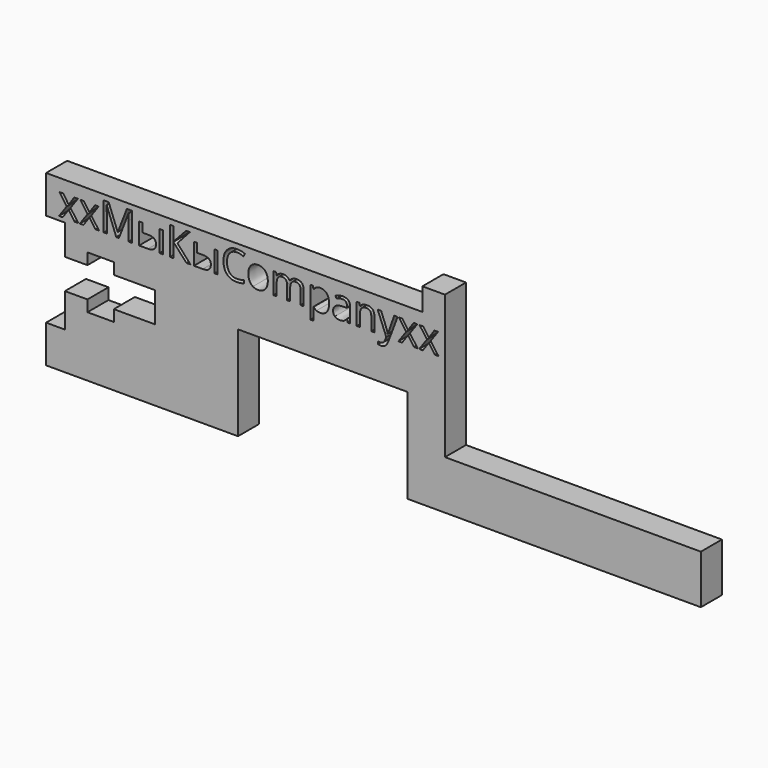
from build123d import *

# Parameters (mm, degrees)
F0_W     = 1.0859235457
F0_H     = 7.1662584661
F1_DEPTH = 8.89


with BuildPart() as f1:
    # F0 (on Front) → F1 (new body)
    with BuildSketch(Plane.XZ):
        Polygon((-63.511736691, 0), (0, 0), (0, 31.7667648196), (57.1569688618, 31.7667648196), (57.1569688618, 0), (156.2215834856, 0), (156.2215834856, 16.5081899613), (69.8571205139, 16.5081899613), (69.8571205139, 64.7891238332), (62.2352696955, 64.7891238332), (62.2352696955, 57.1715123951), (-64.765304327, 57.1715123951), (-64.765304327, 44.4623976946), (-58.4161430597, 44.4623976946), (-58.4161430597, 34.3006663024), (-50.8078150451, 34.3006663024), (-50.8078150451, 38.122523576), (-41.9120937586, 38.122523576), (-41.9120937586, 34.3006663024), (-27.9345344752, 34.3006663024), (-27.9345344752, 24.1308640689), (-41.9120937586, 24.1308640689), (-41.9120937586, 20.3264988959), (-50.8078150451, 20.3264988959), (-50.8078150451, 24.1308640689), (-58.4161430597, 24.1308640689), (-58.4161430597, 12.693409808), (-64.765304327, 12.693409808), (-64.765304327, 0), align=None)
        with BuildLine():
            add(Edge.make_bspline(
                [(29.9519805101, 46.6600305125), (29.1642151634, 45.6818623861), (27.764440882, 45.6818623861)],
                knots=[0, 0, 0, 1, 1, 1], degree=2))
            add(Edge.make_bspline(
                [(27.764440882, 45.6818623861), (27.0635075722, 45.6818623861), (26.4849760493, 45.9402661585)],
                knots=[0, 0, 0, 1, 1, 1], degree=2))
            add(Edge.make_bspline(
                [(26.4849760493, 45.9402661585), (25.9064445264, 46.198669931), (25.5151772758, 46.7364008582)],
                knots=[0, 0, 0, 1, 1, 1], degree=2))
            Line((25.5151772758, 46.7364008582), (25.4356684228, 46.7364008582))
            add(Edge.make_bspline(
                [(25.4356684228, 46.7364008582), (25.5151772758, 46.1086993867), (25.5151772758, 45.5458604006)],
                knots=[0, 0, 0, 1, 1, 1], degree=2))
            Line((25.5151772758, 45.5458604006), (25.5151772758, 42.5956634847))
            Line((25.5151772758, 42.5956634847), (24.4292537302, 42.5956634847))
            Line((24.4292537302, 42.5956634847), (24.4292537302, 52.9799381612))
            Line((24.4292537302, 52.9799381612), (25.3122204667, 52.9799381612))
            Line((25.3122204667, 52.9799381612), (25.4628688199, 51.9986315275))
            Line((25.4628688199, 51.9986315275), (25.5151772758, 51.9986315275))
            add(Edge.make_bspline(
                [(25.5151772758, 51.9986315275), (25.9336449235, 52.5886709107), (26.4891607258, 52.8502131904)],
                knots=[0, 0, 0, 1, 1, 1], degree=2))
            add(Edge.make_bspline(
                [(26.4891607258, 52.8502131904), (27.044676528, 53.1117554702), (27.764440882, 53.1117554702)],
                knots=[0, 0, 0, 1, 1, 1], degree=2))
            add(Edge.make_bspline(
                [(27.764440882, 53.1117554702), (29.1893232223, 53.1117554702), (29.9645345395, 52.1367258512)],
                knots=[0, 0, 0, 1, 1, 1], degree=2))
            add(Edge.make_bspline(
                [(29.9645345395, 52.1367258512), (30.7397458568, 51.1616962322), (30.7397458568, 49.404132112)],
                knots=[0, 0, 0, 1, 1, 1], degree=2))
            add(Edge.make_bspline(
                [(30.7397458568, 49.404132112), (30.7397458568, 47.6381986389), (29.9519805101, 46.6600305125)],
                knots=[0, 0, 0, 1, 1, 1], degree=2))
        make_face(mode=Mode.SUBTRACT)
        Polygon((-60.3962307877, 45.8136796951), (-57.7745309751, 49.4815486268), (-60.2665058169, 52.9799381612), (-59.0299339181, 52.9799381612), (-57.1405524889, 50.2347903926), (-55.2574480745, 52.9799381612), (-54.0334302051, 52.9799381612), (-56.5254050469, 49.4815486268), (-53.9037052343, 45.8136796951), (-55.1319077802, 45.8136796951), (-57.1405524889, 48.7178451699), (-59.1680282418, 45.8136796951), align=None, mode=Mode.SUBTRACT)
        Polygon((-53.3806206747, 45.8136796951), (-50.7589208622, 49.4815486268), (-53.250895704, 52.9799381612), (-52.0143238051, 52.9799381612), (-50.124942376, 50.2347903926), (-48.2418379615, 52.9799381612), (-47.0178200922, 52.9799381612), (-49.5097949339, 49.4815486268), (-46.8880951214, 45.8136796951), (-48.1162976672, 45.8136796951), (-50.124942376, 48.7178451699), (-52.1524181289, 45.8136796951), align=None, mode=Mode.SUBTRACT)
        with BuildLine():
            Line((-40.1800587295, 45.8136796951), (-41.0755794955, 45.8136796951))
            Line((-41.0755794955, 45.8136796951), (-44.3187037648, 54.2876495601))
            Line((-44.3187037648, 54.2876495601), (-44.3710122207, 54.2876495601))
            add(Edge.make_bspline(
                [(-44.3710122207, 54.2876495601), (-44.2789493383, 53.2812348675), (-44.2789493383, 51.8940146156)],
                knots=[0, 0, 0, 1, 1, 1], degree=2))
            Line((-44.2789493383, 51.8940146156), (-44.2789493383, 45.8136796951))
            Line((-44.2789493383, 45.8136796951), (-45.3062874132, 45.8136796951))
            Line((-45.3062874132, 45.8136796951), (-45.3062874132, 55.3735731058))
            Line((-45.3062874132, 55.3735731058), (-43.6324168226, 55.3735731058))
            Line((-43.6324168226, 55.3735731058), (-40.6048033918, 47.4875502857))
            Line((-40.6048033918, 47.4875502857), (-40.5524949359, 47.4875502857))
            Line((-40.5524949359, 47.4875502857), (-37.4997734462, 55.3735731058))
            Line((-37.4997734462, 55.3735731058), (-35.8384568851, 55.3735731058))
            Line((-35.8384568851, 55.3735731058), (-35.8384568851, 45.8136796951))
            Line((-35.8384568851, 45.8136796951), (-36.9494884896, 45.8136796951))
            Line((-36.9494884896, 45.8136796951), (-36.9494884896, 51.9735234686))
            add(Edge.make_bspline(
                [(-36.9494884896, 51.9735234686), (-36.9494884896, 53.0322466172), (-36.8574256071, 54.2750955307)],
                knots=[0, 0, 0, 1, 1, 1], degree=2))
            Line((-36.8574256071, 54.2750955307), (-36.9097340631, 54.2750955307))
            Line((-36.9097340631, 54.2750955307), (-40.1800587295, 45.8136796951))
        make_face(mode=Mode.SUBTRACT)
        with BuildLine():
            Line((-32.2940359094, 52.9799381612), (-32.2940359094, 50.0171872158))
            Line((-32.2940359094, 50.0171872158), (-30.3397919949, 50.0171872158))
            add(Edge.make_bspline(
                [(-30.3397919949, 50.0171872158), (-28.9734951253, 50.0171872158), (-28.3165009185, 49.5108413622)],
                knots=[0, 0, 0, 1, 1, 1], degree=2))
            add(Edge.make_bspline(
                [(-28.3165009185, 49.5108413622), (-27.6595067116, 49.0044955085), (-27.6595067116, 47.9980808159)],
                knots=[0, 0, 0, 1, 1, 1], degree=2))
            add(Edge.make_bspline(
                [(-27.6595067116, 47.9980808159), (-27.6595067116, 46.9184342849), (-28.3552091759, 46.36605699)],
                knots=[0, 0, 0, 1, 1, 1], degree=2))
            add(Edge.make_bspline(
                [(-28.3552091759, 46.36605699), (-29.0509116401, 45.8136796951), (-30.4046544803, 45.8136796951)],
                knots=[0, 0, 0, 1, 1, 1], degree=2))
            Line((-30.4046544803, 45.8136796951), (-33.3799594551, 45.8136796951))
            Line((-33.3799594551, 45.8136796951), (-33.3799594551, 52.9799381612))
            Line((-33.3799594551, 52.9799381612), (-32.2940359094, 52.9799381612))
        make_face(mode=Mode.SUBTRACT)
        with Locations((-25.9134504518, 49.3968089282)):
            Rectangle(F0_W, F0_H, mode=Mode.SUBTRACT)
        Polygon((-20.4409397896, 50.7306745551), (-16.0261061068, 45.8136796951), (-17.3735719323, 45.8136796951), (-21.7946826298, 50.659535055), (-21.7946826298, 45.8136796951), (-22.9057142343, 45.8136796951), (-22.9057142343, 55.3735731058), (-21.7946826298, 55.3735731058), (-21.7946826298, 50.7432285845), (-17.4844658589, 55.3735731058), (-16.2102318718, 55.3735731058), align=None, mode=Mode.SUBTRACT)
        with BuildLine():
            Line((-13.7893965301, 52.9799381612), (-13.7893965301, 50.0171872158))
            Line((-13.7893965301, 50.0171872158), (-11.8351526156, 50.0171872158))
            add(Edge.make_bspline(
                [(-11.8351526156, 50.0171872158), (-10.468855746, 50.0171872158), (-9.8118615392, 49.5108413622)],
                knots=[0, 0, 0, 1, 1, 1], degree=2))
            add(Edge.make_bspline(
                [(-9.8118615392, 49.5108413622), (-9.1548673324, 49.0044955085), (-9.1548673324, 47.9980808159)],
                knots=[0, 0, 0, 1, 1, 1], degree=2))
            add(Edge.make_bspline(
                [(-9.1548673324, 47.9980808159), (-9.1548673324, 46.9184342849), (-9.8505697966, 46.36605699)],
                knots=[0, 0, 0, 1, 1, 1], degree=2))
            add(Edge.make_bspline(
                [(-9.8505697966, 46.36605699), (-10.5462722608, 45.8136796951), (-11.900015101, 45.8136796951)],
                knots=[0, 0, 0, 1, 1, 1], degree=2))
            Line((-11.900015101, 45.8136796951), (-14.8753200758, 45.8136796951))
            Line((-14.8753200758, 45.8136796951), (-14.8753200758, 52.9799381612))
            Line((-14.8753200758, 52.9799381612), (-13.7893965301, 52.9799381612))
        make_face(mode=Mode.SUBTRACT)
        with Locations((-7.4088110725, 49.3968089282)):
            Rectangle(F0_W, F0_H, mode=Mode.SUBTRACT)
        with BuildLine():
            add(Edge.make_bspline(
                [(1.8633858304, 54.0072762362), (0.7774622847, 54.5157144281), (-0.3084612609, 54.5157144281)],
                knots=[0, 0, 0, 1, 1, 1], degree=2))
            add(Edge.make_bspline(
                [(-0.3084612609, 54.5157144281), (-1.8839919544, 54.5157144281), (-2.7962514262, 53.4664068016)],
                knots=[0, 0, 0, 1, 1, 1], degree=2))
            add(Edge.make_bspline(
                [(-2.7962514262, 53.4664068016), (-3.7085108981, 52.4170991751), (-3.7085108981, 50.5925802313)],
                knots=[0, 0, 0, 1, 1, 1], degree=2))
            add(Edge.make_bspline(
                [(-3.7085108981, 50.5925802313), (-3.7085108981, 48.7178451699), (-2.8286826689, 47.6936456022)],
                knots=[0, 0, 0, 1, 1, 1], degree=2))
            add(Edge.make_bspline(
                [(-2.8286826689, 47.6936456022), (-1.9488544397, 46.6694460346), (-0.3210152904, 46.6694460346)],
                knots=[0, 0, 0, 1, 1, 1], degree=2))
            add(Edge.make_bspline(
                [(-0.3210152904, 46.6694460346), (0.6791223875, 46.6694460346), (1.9617257276, 47.0293282116)],
                knots=[0, 0, 0, 1, 1, 1], degree=2))
            Line((1.9617257276, 47.0293282116), (1.9617257276, 46.0563909308))
            add(Edge.make_bspline(
                [(1.9617257276, 46.0563909308), (0.9678650644, 45.6818623861), (-0.4904946877, 45.6818623861)],
                knots=[0, 0, 0, 1, 1, 1], degree=2))
            add(Edge.make_bspline(
                [(-0.4904946877, 45.6818623861), (-2.6016639701, 45.6818623861), (-3.7493114938, 46.9644657262)],
                knots=[0, 0, 0, 1, 1, 1], degree=2))
            add(Edge.make_bspline(
                [(-3.7493114938, 46.9644657262), (-4.8969590175, 48.2470690662), (-4.8969590175, 50.607226599)],
                knots=[0, 0, 0, 1, 1, 1], degree=2))
            add(Edge.make_bspline(
                [(-4.8969590175, 50.607226599), (-4.8969590175, 52.0844173952), (-4.3445817226, 53.1954489998)],
                knots=[0, 0, 0, 1, 1, 1], degree=2))
            add(Edge.make_bspline(
                [(-4.3445817226, 53.1954489998), (-3.7922044277, 54.3064806043), (-2.7491738159, 54.9080278478)],
                knots=[0, 0, 0, 1, 1, 1], degree=2))
            add(Edge.make_bspline(
                [(-2.7491738159, 54.9080278478), (-1.7061432041, 55.5095750913), (-0.2938148933, 55.5095750913)],
                knots=[0, 0, 0, 1, 1, 1], degree=2))
            add(Edge.make_bspline(
                [(-0.2938148933, 55.5095750913), (1.2084839618, 55.5095750913), (2.334161934, 54.9613824729)],
                knots=[0, 0, 0, 1, 1, 1], degree=2))
            Line((2.334161934, 54.9613824729), (1.8633858304, 54.0072762362))
        make_face(mode=Mode.SUBTRACT)
        with BuildLine():
            add(Edge.make_bspline(
                [(9.183431157, 52.1105716232), (10.0695364009, 51.1093877762), (10.0695364009, 49.404132112)],
                knots=[0, 0, 0, 1, 1, 1], degree=2))
            add(Edge.make_bspline(
                [(10.0695364009, 49.404132112), (10.0695364009, 47.6507526683), (9.1876158335, 46.6663075272)],
                knots=[0, 0, 0, 1, 1, 1], degree=2))
            add(Edge.make_bspline(
                [(9.1876158335, 46.6663075272), (8.305695266, 45.6818623861), (6.7489956168, 45.6818623861)],
                knots=[0, 0, 0, 1, 1, 1], degree=2))
            add(Edge.make_bspline(
                [(6.7489956168, 45.6818623861), (5.7865200272, 45.6818623861), (5.0416476143, 46.1338074456)],
                knots=[0, 0, 0, 1, 1, 1], degree=2))
            add(Edge.make_bspline(
                [(5.0416476143, 46.1338074456), (4.2967752015, 46.5857525051), (3.8908615833, 47.4289648151)],
                knots=[0, 0, 0, 1, 1, 1], degree=2))
            add(Edge.make_bspline(
                [(3.8908615833, 47.4289648151), (3.4849479651, 48.2721771251), (3.4849479651, 49.404132112)],
                knots=[0, 0, 0, 1, 1, 1], degree=2))
            add(Edge.make_bspline(
                [(3.4849479651, 49.404132112), (3.4849479651, 51.1554192174), (4.3616376869, 52.1335873438)],
                knots=[0, 0, 0, 1, 1, 1], degree=2))
            add(Edge.make_bspline(
                [(4.3616376869, 52.1335873438), (5.2383274087, 53.1117554702), (6.795027058, 53.1117554702)],
                knots=[0, 0, 0, 1, 1, 1], degree=2))
            add(Edge.make_bspline(
                [(6.795027058, 53.1117554702), (8.2973259131, 53.1117554702), (9.183431157, 52.1105716232)],
                knots=[0, 0, 0, 1, 1, 1], degree=2))
        make_face(mode=Mode.SUBTRACT)
        with BuildLine():
            Line((22.1925441535, 45.8136796951), (21.108712946, 45.8136796951))
            Line((21.108712946, 45.8136796951), (21.108712946, 50.47540929))
            add(Edge.make_bspline(
                [(21.108712946, 50.47540929), (21.108712946, 51.3332679677), (20.7425537543, 51.7611511374)],
                knots=[0, 0, 0, 1, 1, 1], degree=2))
            add(Edge.make_bspline(
                [(20.7425537543, 51.7611511374), (20.3763945626, 52.1890343071), (19.6043217527, 52.1890343071)],
                knots=[0, 0, 0, 1, 1, 1], degree=2))
            add(Edge.make_bspline(
                [(19.6043217527, 52.1890343071), (18.5916300454, 52.1890343071), (18.1072537432, 51.6073642769)],
                knots=[0, 0, 0, 1, 1, 1], degree=2))
            add(Edge.make_bspline(
                [(18.1072537432, 51.6073642769), (17.6228774411, 51.0256942467), (17.6228774411, 49.8163227449)],
                knots=[0, 0, 0, 1, 1, 1], degree=2))
            Line((17.6228774411, 49.8163227449), (17.6228774411, 45.8136796951))
            Line((17.6228774411, 45.8136796951), (16.5369538954, 45.8136796951))
            Line((16.5369538954, 45.8136796951), (16.5369538954, 50.47540929))
            add(Edge.make_bspline(
                [(16.5369538954, 50.47540929), (16.5369538954, 51.3332679677), (16.1707947037, 51.7611511374)],
                knots=[0, 0, 0, 1, 1, 1], degree=2))
            add(Edge.make_bspline(
                [(16.1707947037, 51.7611511374), (15.804635512, 52.1890343071), (15.0262856874, 52.1890343071)],
                knots=[0, 0, 0, 1, 1, 1], degree=2))
            add(Edge.make_bspline(
                [(15.0262856874, 52.1890343071), (14.0073169653, 52.1890343071), (13.5334023544, 51.5780715416)],
                knots=[0, 0, 0, 1, 1, 1], degree=2))
            add(Edge.make_bspline(
                [(13.5334023544, 51.5780715416), (13.0594877434, 50.967108776), (13.0594877434, 49.5736115093)],
                knots=[0, 0, 0, 1, 1, 1], degree=2))
            Line((13.0594877434, 49.5736115093), (13.0594877434, 45.8136796951))
            Line((13.0594877434, 45.8136796951), (11.9735641977, 45.8136796951))
            Line((11.9735641977, 45.8136796951), (11.9735641977, 52.9799381612))
            Line((11.9735641977, 52.9799381612), (12.8565309343, 52.9799381612))
            Line((12.8565309343, 52.9799381612), (13.0322873463, 51.9986315275))
            Line((13.0322873463, 51.9986315275), (13.0845958023, 51.9986315275))
            add(Edge.make_bspline(
                [(13.0845958023, 51.9986315275), (13.3921695233, 52.521716087), (13.951870002, 52.8167357786)],
                knots=[0, 0, 0, 1, 1, 1], degree=2))
            add(Edge.make_bspline(
                [(13.951870002, 52.8167357786), (14.5115704808, 53.1117554702), (15.2041344376, 53.1117554702)],
                knots=[0, 0, 0, 1, 1, 1], degree=2))
            add(Edge.make_bspline(
                [(15.2041344376, 53.1117554702), (16.884282043, 53.1117554702), (17.4010895878, 51.8940146156)],
                knots=[0, 0, 0, 1, 1, 1], degree=2))
            Line((17.4010895878, 51.8940146156), (17.4533980438, 51.8940146156))
            add(Edge.make_bspline(
                [(17.4533980438, 51.8940146156), (17.7735257942, 52.4568536016), (18.3813500524, 52.7843045359)],
                knots=[0, 0, 0, 1, 1, 1], degree=2))
            add(Edge.make_bspline(
                [(18.3813500524, 52.7843045359), (18.9891743107, 53.1117554702), (19.7675241353, 53.1117554702)],
                knots=[0, 0, 0, 1, 1, 1], degree=2))
            add(Edge.make_bspline(
                [(19.7675241353, 53.1117554702), (20.9831726517, 53.1117554702), (21.5878584026, 52.4871925061)],
                knots=[0, 0, 0, 1, 1, 1], degree=2))
            add(Edge.make_bspline(
                [(21.5878584026, 52.4871925061), (22.1925441535, 51.862629542), (22.1925441535, 50.4879633194)],
                knots=[0, 0, 0, 1, 1, 1], degree=2))
            Line((22.1925441535, 50.4879633194), (22.1925441535, 45.8136796951))
        make_face(mode=Mode.SUBTRACT)
        with BuildLine():
            Line((37.8474188522, 45.8136796951), (37.0418686305, 45.8136796951))
            Line((37.0418686305, 45.8136796951), (36.826357792, 46.8347407554))
            Line((36.826357792, 46.8347407554), (36.774049336, 46.8347407554))
            add(Edge.make_bspline(
                [(36.774049336, 46.8347407554), (36.238410747, 46.1610078427), (35.7059106654, 45.9214351144)],
                knots=[0, 0, 0, 1, 1, 1], degree=2))
            add(Edge.make_bspline(
                [(35.7059106654, 45.9214351144), (35.1734105837, 45.6818623861), (34.3741373767, 45.6818623861)],
                knots=[0, 0, 0, 1, 1, 1], degree=2))
            add(Edge.make_bspline(
                [(34.3741373767, 45.6818623861), (33.3091372134, 45.6818623861), (32.7044514626, 46.2321473428)],
                knots=[0, 0, 0, 1, 1, 1], degree=2))
            add(Edge.make_bspline(
                [(32.7044514626, 46.2321473428), (32.0997657117, 46.7824322995), (32.0997657117, 47.7951240068)],
                knots=[0, 0, 0, 1, 1, 1], degree=2))
            add(Edge.make_bspline(
                [(32.0997657117, 47.7951240068), (32.0997657117, 49.9648787599), (35.570954849, 50.0694956718)],
                knots=[0, 0, 0, 1, 1, 1], degree=2))
            Line((35.570954849, 50.0694956718), (36.7866033654, 50.1092500983))
            Line((36.7866033654, 50.1092500983), (36.7866033654, 50.5549181431))
            add(Edge.make_bspline(
                [(36.7866033654, 50.5549181431), (36.7866033654, 51.3981304531), (36.4246288502, 51.7998593948)],
                knots=[0, 0, 0, 1, 1, 1], degree=2))
            add(Edge.make_bspline(
                [(36.4246288502, 51.7998593948), (36.062654335, 52.2015883366), (35.263381128, 52.2015883366)],
                knots=[0, 0, 0, 1, 1, 1], degree=2))
            add(Edge.make_bspline(
                [(35.263381128, 52.2015883366), (34.367860362, 52.2015883366), (33.2379977133, 51.6533957182)],
                knots=[0, 0, 0, 1, 1, 1], degree=2))
            Line((33.2379977133, 51.6533957182), (32.9032235952, 52.4840539987))
            add(Edge.make_bspline(
                [(32.9032235952, 52.4840539987), (33.4325851695, 52.7707043374), (34.0634251483, 52.93390672)],
                knots=[0, 0, 0, 1, 1, 1], degree=2))
            add(Edge.make_bspline(
                [(34.0634251483, 52.93390672), (34.6942651271, 53.0971091026), (35.3303359516, 53.0971091026)],
                knots=[0, 0, 0, 1, 1, 1], degree=2))
            add(Edge.make_bspline(
                [(35.3303359516, 53.0971091026), (36.6108469534, 53.0971091026), (37.2291329028, 52.5290392709)],
                knots=[0, 0, 0, 1, 1, 1], degree=2))
            add(Edge.make_bspline(
                [(37.2291329028, 52.5290392709), (37.8474188522, 51.9609694392), (37.8474188522, 50.7055664962)],
                knots=[0, 0, 0, 1, 1, 1], degree=2))
            Line((37.8474188522, 50.7055664962), (37.8474188522, 45.8136796951))
        make_face(mode=Mode.SUBTRACT)
        with BuildLine():
            Line((46.0724004669, 45.8136796951), (44.9864769212, 45.8136796951))
            Line((44.9864769212, 45.8136796951), (44.9864769212, 50.4503012311))
            add(Edge.make_bspline(
                [(44.9864769212, 50.4503012311), (44.9864769212, 51.3248986147), (44.5878864868, 51.7569664609)],
                knots=[0, 0, 0, 1, 1, 1], degree=2))
            add(Edge.make_bspline(
                [(44.5878864868, 51.7569664609), (44.1892960524, 52.1890343071), (43.3377143895, 52.1890343071)],
                knots=[0, 0, 0, 1, 1, 1], degree=2))
            add(Edge.make_bspline(
                [(43.3377143895, 52.1890343071), (42.2141287555, 52.1890343071), (41.6910441959, 51.5812100489)],
                knots=[0, 0, 0, 1, 1, 1], degree=2))
            add(Edge.make_bspline(
                [(41.6910441959, 51.5812100489), (41.1679596364, 50.9733857907), (41.1679596364, 49.5736115093)],
                knots=[0, 0, 0, 1, 1, 1], degree=2))
            Line((41.1679596364, 49.5736115093), (41.1679596364, 45.8136796951))
            Line((41.1679596364, 45.8136796951), (40.0820360907, 45.8136796951))
            Line((40.0820360907, 45.8136796951), (40.0820360907, 52.9799381612))
            Line((40.0820360907, 52.9799381612), (40.9650028273, 52.9799381612))
            Line((40.9650028273, 52.9799381612), (41.1407592393, 51.9986315275))
            Line((41.1407592393, 51.9986315275), (41.1930676952, 51.9986315275))
            add(Edge.make_bspline(
                [(41.1930676952, 51.9986315275), (41.5278418134, 52.5279931017), (42.1293890569, 52.819874286)],
                knots=[0, 0, 0, 1, 1, 1], degree=2))
            add(Edge.make_bspline(
                [(42.1293890569, 52.819874286), (42.7309363004, 53.1117554702), (43.4695316985, 53.1117554702)],
                knots=[0, 0, 0, 1, 1, 1], degree=2))
            add(Edge.make_bspline(
                [(43.4695316985, 53.1117554702), (44.764689068, 53.1117554702), (45.4185447674, 52.4871925061)],
                knots=[0, 0, 0, 1, 1, 1], degree=2))
            add(Edge.make_bspline(
                [(45.4185447674, 52.4871925061), (46.0724004669, 51.862629542), (46.0724004669, 50.4879633194)],
                knots=[0, 0, 0, 1, 1, 1], degree=2))
            Line((46.0724004669, 50.4879633194), (46.0724004669, 45.8136796951))
        make_face(mode=Mode.SUBTRACT)
        with BuildLine():
            Line((50.0541201343, 45.7739252686), (47.162508689, 52.9799381612))
            Line((47.162508689, 52.9799381612), (48.3279410877, 52.9799381612))
            Line((48.3279410877, 52.9799381612), (49.8971947664, 48.8936015819))
            add(Edge.make_bspline(
                [(49.8971947664, 48.8936015819), (50.4119099731, 47.4938273005), (50.5374502674, 46.8724028437)],
                knots=[0, 0, 0, 1, 1, 1], degree=2))
            Line((50.5374502674, 46.8724028437), (50.5897587233, 46.8724028437))
            add(Edge.make_bspline(
                [(50.5897587233, 46.8724028437), (50.6734522528, 47.2071769618), (50.9454562238, 48.0148195218)],
                knots=[0, 0, 0, 1, 1, 1], degree=2))
            add(Edge.make_bspline(
                [(50.9454562238, 48.0148195218), (51.2174601948, 48.8224620818), (52.7218513881, 52.9799381612)],
                knots=[0, 0, 0, 1, 1, 1], degree=2))
            Line((52.7218513881, 52.9799381612), (53.8851914486, 52.9799381612))
            Line((53.8851914486, 52.9799381612), (50.8052695619, 44.8198190319))
            add(Edge.make_bspline(
                [(50.8052695619, 44.8198190319), (50.3470474877, 43.6104475302), (49.7360847221, 43.1030555074)],
                knots=[0, 0, 0, 1, 1, 1], degree=2))
            add(Edge.make_bspline(
                [(49.7360847221, 43.1030555074), (49.1251219565, 42.5956634847), (48.2358782053, 42.5956634847)],
                knots=[0, 0, 0, 1, 1, 1], degree=2))
            add(Edge.make_bspline(
                [(48.2358782053, 42.5956634847), (47.7379017045, 42.5956634847), (47.2545715715, 42.7086497495)],
                knots=[0, 0, 0, 1, 1, 1], degree=2))
            Line((47.2545715715, 42.7086497495), (47.2545715715, 43.5769701184))
            add(Edge.make_bspline(
                [(47.2545715715, 43.5769701184), (47.6144537485, 43.4995536036), (48.058029455, 43.4995536036)],
                knots=[0, 0, 0, 1, 1, 1], degree=2))
            add(Edge.make_bspline(
                [(48.058029455, 43.4995536036), (49.1774304125, 43.4995536036), (49.6544835308, 44.7549565466)],
                knots=[0, 0, 0, 1, 1, 1], degree=2))
            Line((49.6544835308, 44.7549565466), (50.0541201343, 45.7739252686))
        make_face(mode=Mode.SUBTRACT)
        Polygon((54.1530107431, 45.8136796951), (56.7747105557, 49.4815486268), (54.2827357139, 52.9799381612), (55.5193076127, 52.9799381612), (57.4086890418, 50.2347903926), (59.2917934563, 52.9799381612), (60.5158113257, 52.9799381612), (58.0238364839, 49.4815486268), (60.6455362965, 45.8136796951), (59.4173337506, 45.8136796951), (57.4086890418, 48.7178451699), (55.381213289, 45.8136796951), align=None, mode=Mode.SUBTRACT)
        Polygon((61.168620856, 45.8136796951), (63.7903206686, 49.4815486268), (61.2983458268, 52.9799381612), (62.5349177256, 52.9799381612), (64.4242991548, 50.2347903926), (66.3074035692, 52.9799381612), (67.5314214386, 52.9799381612), (65.0394465968, 49.4815486268), (67.6611464094, 45.8136796951), (66.4329438635, 45.8136796951), (64.4242991548, 48.7178451699), (62.3968234019, 45.8136796951), align=None, mode=Mode.SUBTRACT)
    extrude(amount=F1_DEPTH)


solid = f1.part
